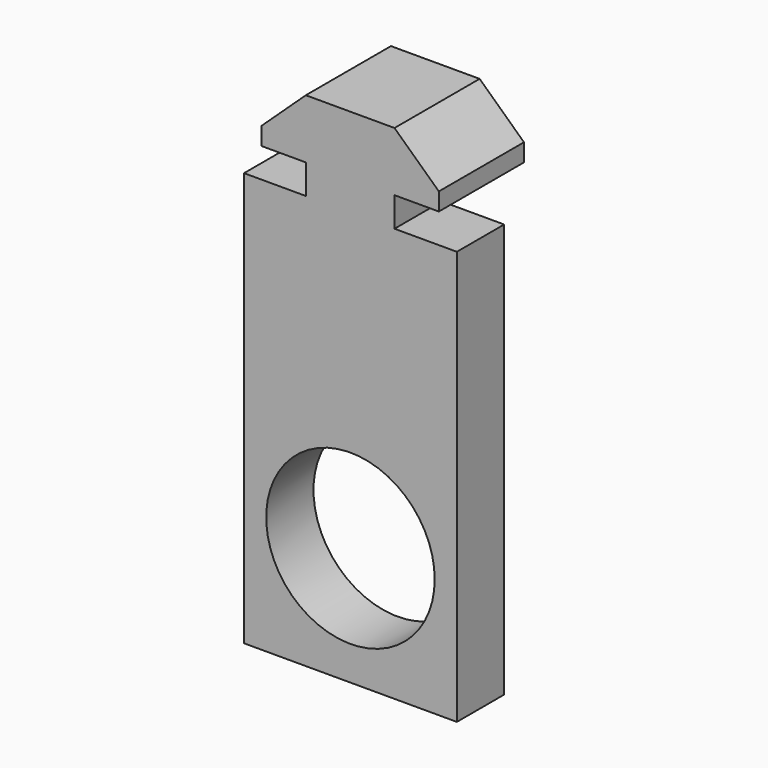
from build123d import *

# Parameters (mm, degrees)
F1_DEPTH       = 9
F2_W           = 18
F2_H           = 35
F3_DEPTH       = 5
F5_D           = 8.8
F5_DEPTH       = 10
F5_CBORE_D     = 14.25
F5_CBORE_DEPTH = 8
F5_TIP         = 2.6437867237


with BuildPart() as f1:
    # F0 (on Front) → F1 (new body)
    with BuildSketch(Plane.XZ):
        Polygon((-3.7746716016, 2.5), (-3.7746716016, 0), (3.7253283984, 0), (3.7253283984, 2.5), (7.4753283984, 2.5), (7.4753283984, 4), (3.7253283984, 7.5), (-3.7746716016, 7.5), (-7.5246716016, 4), (-7.5246716016, 2.5), align=None)
    extrude(amount=F1_DEPTH)

    # F2 (on face) → F3 (join)
    with BuildSketch(Plane.XZ.offset(9)):
        with Locations((0, -17.5)):
            Rectangle(F2_W, F2_H)
    extrude(amount=-F3_DEPTH)

    # F5
    with Locations(Plane.XZ.offset(9)):
        with Locations((0, -25)):
            CounterBoreHole(F5_D / 2, F5_CBORE_D / 2, F5_CBORE_DEPTH, depth=F5_DEPTH)
            with Locations((0, 0, -(F5_DEPTH + F5_TIP / 2))):  # 118° drill point
                Cone(0, F5_D / 2, F5_TIP, mode=Mode.SUBTRACT)


solid = f1.part
